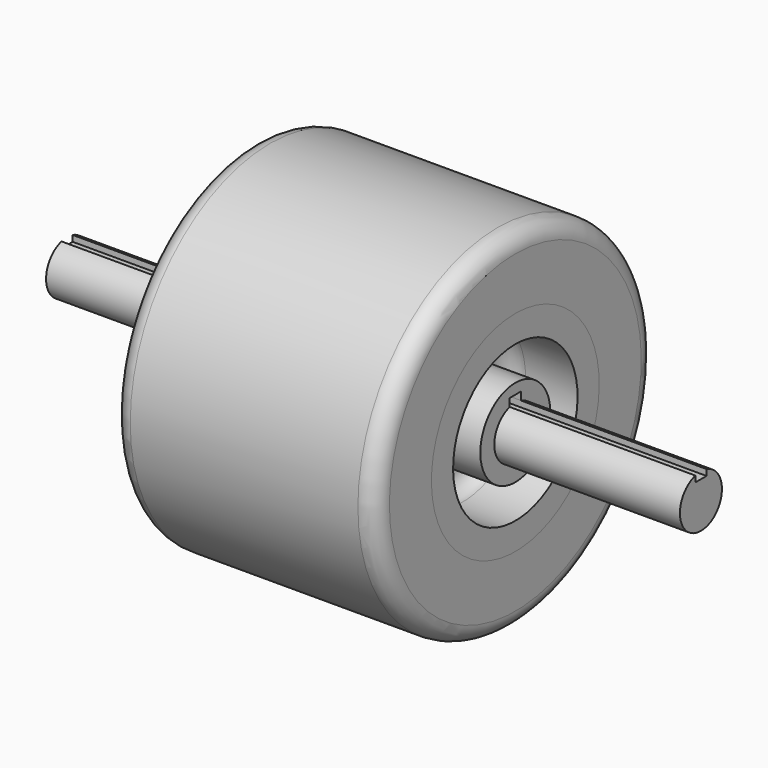
from build123d import *

# Parameters (mm, degrees)
F3_DEPTH = 181.001
F7_DEPTH = 128.001
F10_R    = 5


with BuildPart() as f1:
    # F0 (on Front) → F1 (revolve)
    with BuildSketch(Plane.XZ):
        Polygon((-90.5, 7.5), (-90.5, 0), (90.5, 0), (90.5, 7.5), (29, 7.5), (29, 7), (28, 7), (28, 7.5), (-9, 7.5), (-10, 7.5), (-47, 7.5), (-47, 7), (-48, 7), (-48, 7.5), align=None)
    revolve(axis=Axis((0, 0, 0), (1, 0, 0)))

    # F2 (on face) → F3 (cut, through all)
    with BuildSketch(Plane(origin=(-90.5, 0, 0), x_dir=(0, -1, 0), z_dir=(-1, 0, 0))):
        with BuildLine():
            ThreePointArc((2, 7.228416), (0, 7.5), (-2, 7.228416))
            Line((-2, 7.228416), (-2, 5.5))
            Line((-2, 5.5), (2, 5.5))
            Line((2, 5.5), (2, 7.228416))
        make_face()
    extrude(amount=-F3_DEPTH, mode=Mode.SUBTRACT)


with BuildPart() as f5:
    # F4 (on Front) → F5 (revolve)
    with BuildSketch(Plane.XZ):
        with BuildLine():
            Line((-37.5, 7.5), (0, 7.5))
            Line((0, 7.5), (37.5, 7.5))
            Line((37.5, 7.5), (37.5, 12.5))
            Line((37.5, 12.5), (22.639541, 12.5))
            ThreePointArc((22.639541, 12.5), (17.783461, 17.35608), (22.639541, 22.212159))
            Line((22.639541, 22.212159), (37.5, 22.212159))
            Line((37.5, 22.212159), (37.5, 30))
            Line((37.5, 30), (0, 30))
            Line((0, 30), (-37.5, 30))
            Line((-37.5, 30), (-37.5, 22.212159))
            Line((-37.5, 22.212159), (-22.639541, 22.212159))
            ThreePointArc((-22.639541, 22.212159), (-17.783461, 17.35608), (-22.639541, 12.5))
            Line((-22.639541, 12.5), (-37.5, 12.5))
            Line((-37.5, 12.5), (-37.5, 7.5))
        make_face()
    revolve(axis=Axis((0, 0, 0), (1, 0, 0)))

    # F6 (on face) → F7 (cut, through all)
    with BuildSketch(Plane(origin=(-37.5, 0, 0), x_dir=(0, -1, 0), z_dir=(-1, 0, 0))):
        with BuildLine():
            Line((2, 9.5), (-2, 9.5))
            Line((-2, 9.5), (-2, 7.228416))
            ThreePointArc((-2, 7.228416), (0, 7.5), (2, 7.228416))
            Line((2, 7.228416), (2, 9.5))
        make_face()
    extrude(amount=-F7_DEPTH, mode=Mode.SUBTRACT)


with BuildPart() as f9:
    # F8 (on Front) → F9 (revolve)
    with BuildSketch(Plane.XZ):
        Polygon((-37.5, 29.943114), (0, 29.943114), (37.5, 29.943114), (37.5, 49.943114), (-37.5, 49.943114), align=None)
    revolve(axis=Axis((0, 0, 0), (1, 0, 0)))

    # F10
    f10_edges = [f9.edges().sort_by_distance(p)[0] for p in [
        (-37.5, 0, -49.943114),
        (37.5, 0, -49.943114),
    ]]
    fillet(f10_edges, radius=F10_R)


solid = Compound([f1.part, f5.part, f9.part])
